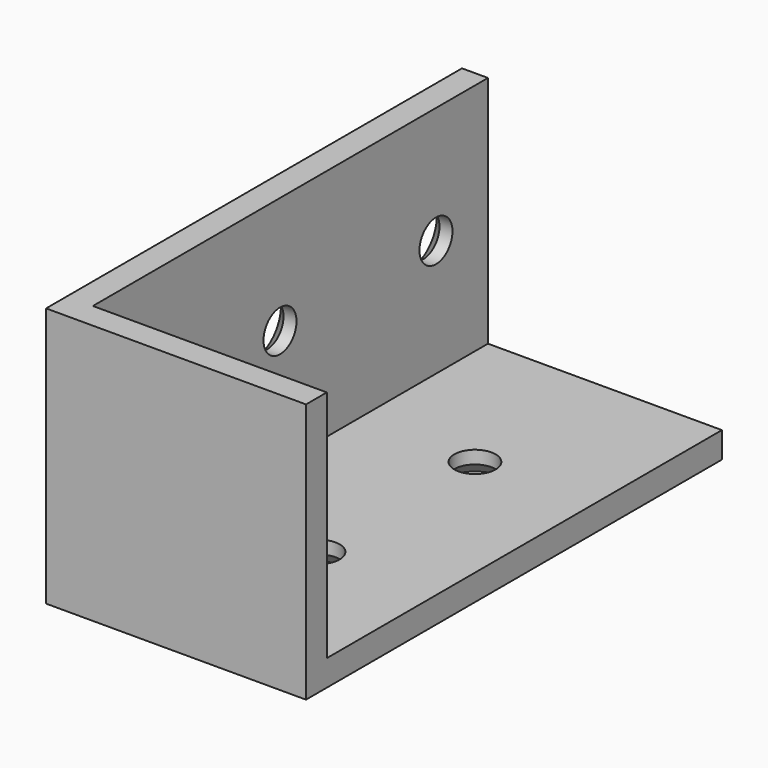
from build123d import *

# Parameters (mm, degrees)
F1_DEPTH = 40
F2_W     = 2
F2_H     = 18
F3_DEPTH = 18
F4_R     = 1.5875
F5_DEPTH = 2.001
F6_R     = 1.5875
F7_DEPTH = 2.001
F8_SIZE  = 1


with BuildPart() as f1:
    # F0 (on Front) → F1 (new body)
    with BuildSketch(Plane.XZ):
        Polygon((-2, 18), (-2, -2), (18, -2), (18, 0), (0, 0), (0, 18), align=None)
    extrude(amount=-F1_DEPTH)

    # F2 (on face) → F3 (join, through all)
    with BuildSketch(Plane.YZ):
        with Locations((1, 9)):
            Rectangle(F2_W, F2_H)
    extrude(amount=F3_DEPTH)

    # F4 (on face) → F5 (cut, through all)
    with BuildSketch(Plane.XY):
        with Locations((9, 12.5)):
            Circle(F4_R)
        with Locations((9, 27.5)):
            Circle(F4_R)
    extrude(amount=-F5_DEPTH, mode=Mode.SUBTRACT)

    # F6 (on face) → F7 (cut, through all)
    with BuildSketch(Plane.YZ):
        with Locations((35, 9)):
            Circle(F6_R)
        with Locations((20, 9)):
            Circle(F6_R)
    extrude(amount=-F7_DEPTH, mode=Mode.SUBTRACT)

    # F8
    f8_edges = [f1.edges().sort_by_distance(p)[0] for p in [
        (-2, 18.4125, 9),
        (-2, 33.4125, 9),
        (7.4125, 27.5, -2),
        (7.4125, 12.5, -2),
    ]]
    chamfer(f8_edges, length=F8_SIZE)


solid = f1.part
